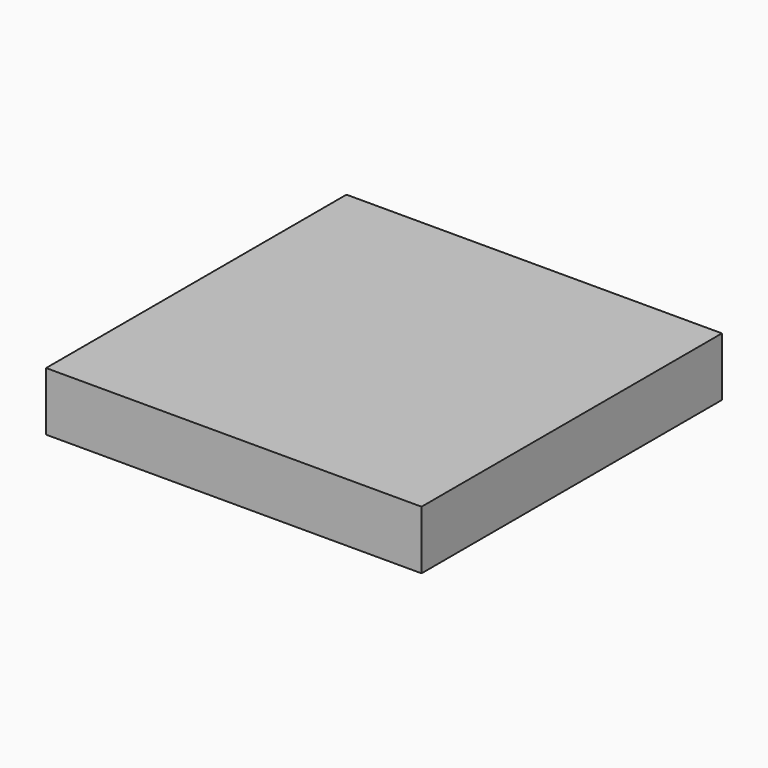
from build123d import *

# Parameters (mm, degrees)
F0_W     = 40.64
F0_H     = 40.64
F0_W_2   = 35.56
F0_H_2   = 35.56
F1_DEPTH = 1.27
F2_W     = 40.64
F2_H     = 40.64
F3_DEPTH = 5.08


with BuildPart() as f1:
    # F0 (on Top) → F1 (new body)
    with BuildSketch(Plane.XY):
        Rectangle(F0_W, F0_H)
        Rectangle(F0_W_2, F0_H_2, mode=Mode.SUBTRACT)
    extrude(amount=-F1_DEPTH)

    # F2 (on Top) → F3 (join)
    with BuildSketch(Plane.XY):
        Rectangle(F2_W, F2_H)
    extrude(amount=F3_DEPTH)


solid = f1.part
